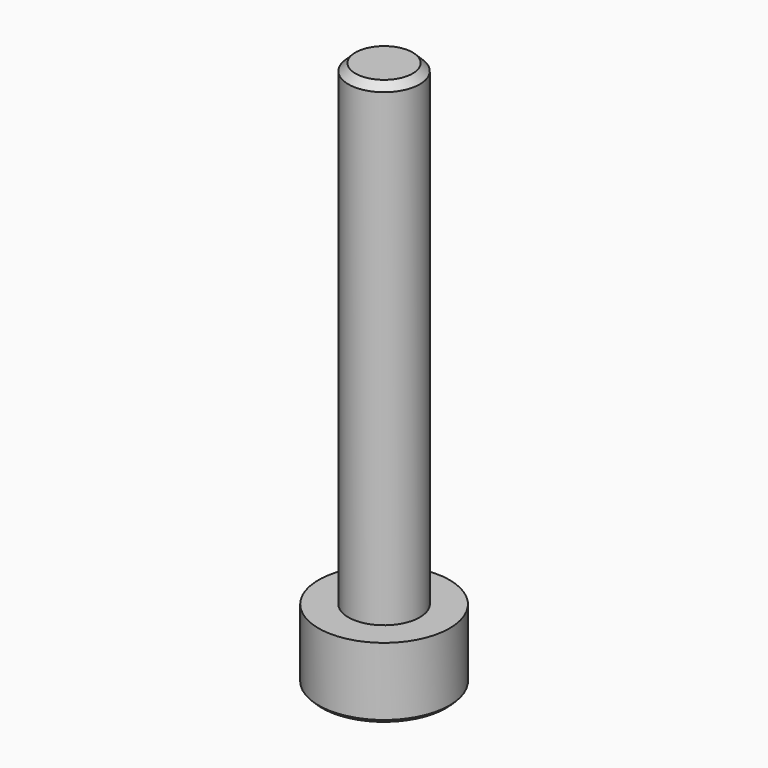
from build123d import *

# Parameters (mm, degrees)
F3_R     = 2.75
F4_DEPTH = 3
F6_DEPTH = 1.5
F7_R     = 1.5
F8_DEPTH = 20
F9_SIZE  = 0.15
F10_SIZE = 0.3


with BuildPart() as f4:
    # F3 (on Top) → F4 (new body)
    with BuildSketch(Plane.XY):
        Circle(F3_R)
    extrude(amount=F4_DEPTH)

    # F5 (on face) → F6 (cut)
    with BuildSketch(Plane(origin=(0, 0, 0), x_dir=(1, 0, 0), z_dir=(0, 0, -1))):
        Polygon((0.7216878365, 1.25), (-0.7216878365, 1.25), (-1.443375673, 0), (-0.7216878365, -1.25), (0.7216878365, -1.25), (1.443375673, 0), align=None)
    extrude(amount=-F6_DEPTH, mode=Mode.SUBTRACT)

    # F7 (on face) → F8 (join)
    with BuildSketch(Plane.XY.offset(3)):
        Circle(F7_R)
    extrude(amount=F8_DEPTH)

    # F9
    f9_edges = [f4.edges().sort_by_distance(p)[0] for p in [
        (-2.75, 0, 0),
        (0, -1.25, 0),
        (1.082532, -0.625, 0),
        (1.082532, 0.625, 0),
        (0, 1.25, 0),
        (-1.082532, -0.625, 0),
        (-1.082532, 0.625, 0),
    ]]
    chamfer(f9_edges, length=F9_SIZE)

    # F10
    f10_edges = [f4.edges().sort_by_distance(p)[0] for p in [
        (-1.5, 0, 23),
    ]]
    chamfer(f10_edges, length=F10_SIZE)


solid = f4.part
